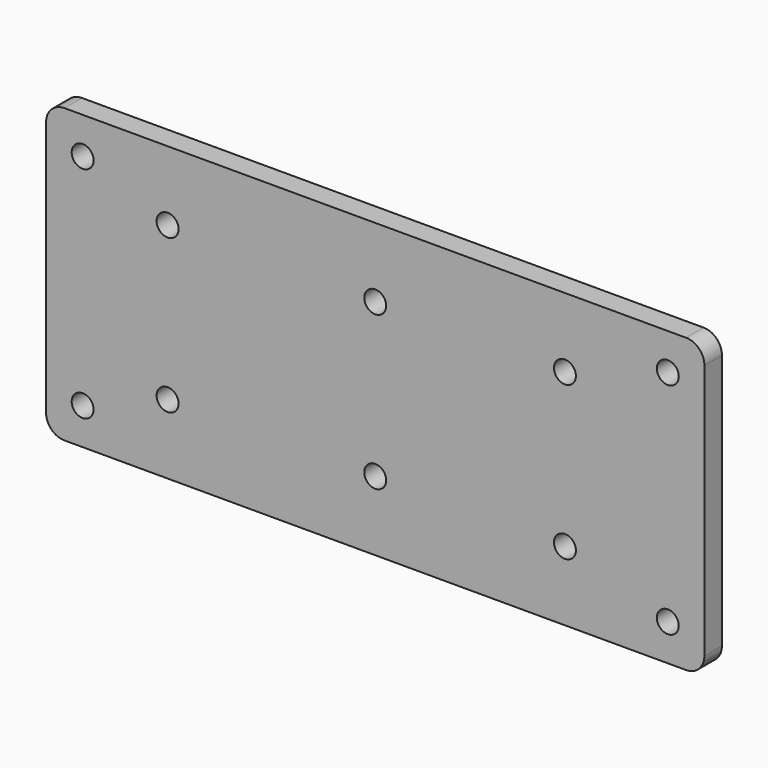
from build123d import *

# Parameters (mm, degrees)
F0_W     = 180
F0_H     = 80
F0_R     = 3
F1_DEPTH = 6
F2_R     = 5


with BuildPart() as f1:
    # F0 (on Front) → F1 (new body)
    with BuildSketch(Plane.XZ):
        with Locations((0, 4.415482)):
            Rectangle(F0_W, F0_H)
        with Locations((-80, -25.584518)):
            Circle(F0_R, mode=Mode.SUBTRACT)
        with Locations((-56.777846, -16.584518)):
            Circle(F0_R, mode=Mode.SUBTRACT)
        with Locations((0, -16.584518)):
            Circle(F0_R, mode=Mode.SUBTRACT)
        with Locations((51.876541, -16.584518)):
            Circle(F0_R, mode=Mode.SUBTRACT)
        with Locations((80, -25.584518)):
            Circle(F0_R, mode=Mode.SUBTRACT)
        with Locations((-80, 34.415482)):
            Circle(F0_R, mode=Mode.SUBTRACT)
        with Locations((-56.777846, 25.415482)):
            Circle(F0_R, mode=Mode.SUBTRACT)
        with Locations((0, 25.415482)):
            Circle(F0_R, mode=Mode.SUBTRACT)
        with Locations((51.876541, 25.415482)):
            Circle(F0_R, mode=Mode.SUBTRACT)
        with Locations((80, 34.415482)):
            Circle(F0_R, mode=Mode.SUBTRACT)
    extrude(amount=F1_DEPTH)

    # F2
    f2_edges = [f1.edges().sort_by_distance(p)[0] for p in [
        (-90, -3, 44.415482),
        (-90, -3, -35.584518),
        (90, -3, 44.415482),
        (90, -3, -35.584518),
    ]]
    fillet(f2_edges, radius=F2_R)


solid = f1.part
